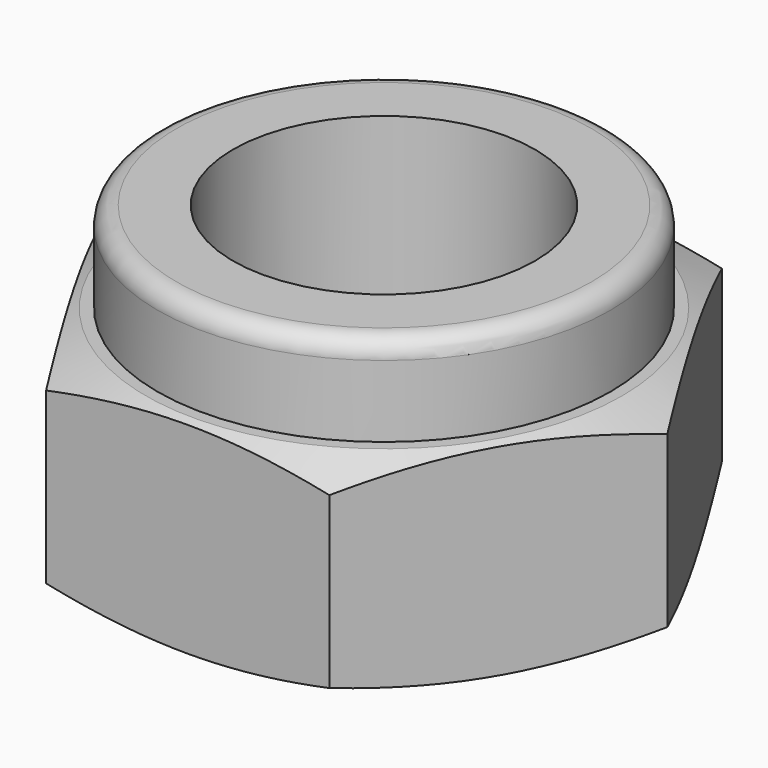
from build123d import *

# Parameters (mm, degrees)
SKETCH007_R  = 4
PAD004_DEPTH = 5.5


with BuildPart() as part:
    # Sketch007 → Pad004 (new body)
    with BuildSketch(Plane.XY):
        Polygon((7.5055534995, 0), (3.7527767497, 6.5), (-3.7527767497, 6.5), (-7.5055534995, 0), (-3.7527767497, -6.5), (3.7527767497, -6.5), align=None)
        Circle(SKETCH007_R, mode=Mode.SUBTRACT)
    extrude(amount=PAD004_DEPTH)

    # Sketch008 → Revolution (revolve)
    with BuildSketch(Plane.XZ):
        with BuildLine():
            Line((4, 5.5), (6, 5.5))
            Line((6, 5.5), (6, 7.4))
            ThreePointArc((6, 7.4), (5.8535533906, 7.7535533906), (5.5, 7.9))
            Line((5.5, 7.9), (4, 7.9))
            Line((4, 7.9), (4, 5.5))
        make_face()
    revolve(axis=Axis((0, 0, 0), (0, 0, 1)))

    # Sketch009 → Groove001 (revolve, cut)
    with BuildSketch(Plane.XZ):
        Polygon((7.5055534995, 5.5), (6.3055534995, 5.5), (7.5055534995, 5), align=None)
        Polygon((7.5055534995, 0), (6.3055534995, 0), (7.5055534995, 0.5), align=None)
    revolve(axis=Axis((0, 0, 0), (0, 0, 1)), mode=Mode.SUBTRACT)


solid = part.part
